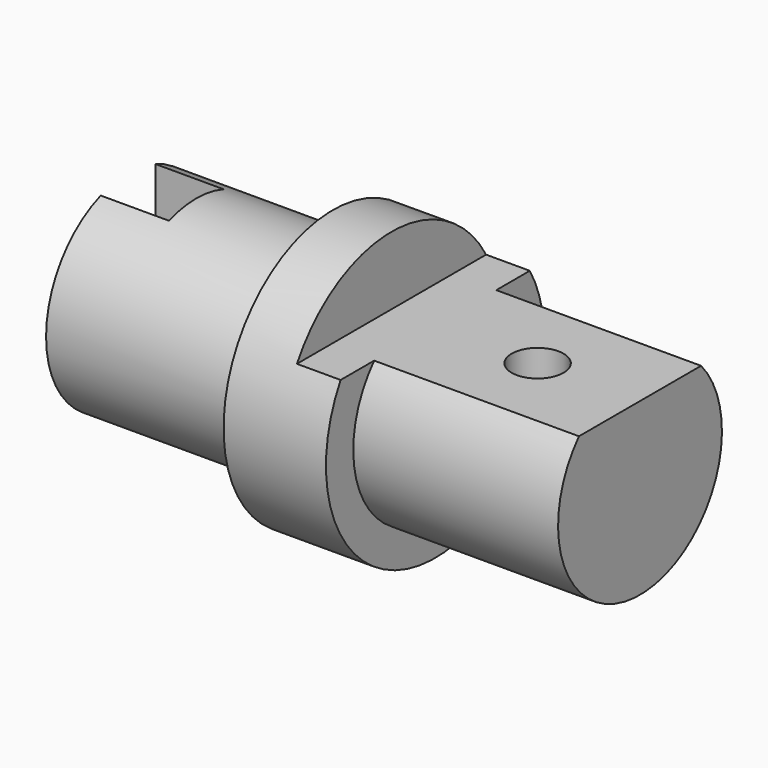
from build123d import *

# Parameters (mm, degrees)
F0_R      = 25.4
F1_DEPTH  = 95.25
F2_R      = 25.4
F2_R_2    = 19.05
F3_DEPTH  = 38.1
F4_R      = 25.4
F4_R_2    = 19.05
F5_DEPTH  = 38.1
F7_DEPTH  = 12.7
F9_DEPTH  = 46.228
F10_R     = 4.826
F11_DEPTH = 22.352


with BuildPart() as f1:
    # F0 (on Right) → F1 (new body)
    with BuildSketch(Plane.YZ):
        Circle(F0_R)
    extrude(amount=F1_DEPTH)

    # F2 (on face) → F3 (cut)
    with BuildSketch(Plane.YZ.offset(95.25)):
        Circle(F2_R)
        Circle(F2_R_2, mode=Mode.SUBTRACT)
    extrude(amount=-F3_DEPTH, mode=Mode.SUBTRACT)

    # F4 (on face) → F5 (cut)
    with BuildSketch(Plane(origin=(0, 0, 0), x_dir=(0, -1, 0), z_dir=(-1, 0, 0))):
        Circle(F4_R)
        Circle(F4_R_2, mode=Mode.SUBTRACT)
    extrude(amount=-F5_DEPTH, mode=Mode.SUBTRACT)

    # F6 (on face) → F7 (cut)
    with BuildSketch(Plane(origin=(0, 0, 0), x_dir=(0, -1, 0), z_dir=(-1, 0, 0))):
        with BuildLine():
            ThreePointArc((6.35, 17.9605122421), (3.2213926947, 18.7756525614), (0, 19.05))
            ThreePointArc((0, 19.05), (-3.2213926947, 18.7756525614), (-6.35, 17.9605122421))
            Line((-6.35, 17.9605122421), (-6.35, -17.9605122421))
            ThreePointArc((-6.35, -17.9605122421), (-3.2213926947, -18.7756525614), (0, -19.05))
            ThreePointArc((0, -19.05), (3.2213926947, -18.7756525614), (6.35, -17.9605122421))
            Line((6.35, -17.9605122421), (6.35, 17.9605122421))
        make_face()
    extrude(amount=-F7_DEPTH, mode=Mode.SUBTRACT)

    # F8 (on face) → F9 (cut)
    with BuildSketch(Plane.YZ.offset(95.25)):
        with BuildLine():
            Line((-40.058898566, 25.4), (-40.058898566, 21.5428465581))
            Line((-40.058898566, 21.5428465581), (-40.058898566, 12.7))
            Line((-40.058898566, 12.7), (-14.1990316571, 12.7))
            ThreePointArc((-14.1990316571, 12.7), (0, 19.05), (14.1990316571, 12.7))
            Line((14.1990316571, 12.7), (36.141101434, 12.7))
            Line((36.141101434, 12.7), (36.141101434, 25.4))
            Line((36.141101434, 25.4), (-40.058898566, 25.4))
        make_face()
        with BuildLine():
            ThreePointArc((14.1990316571, 12.7), (0, 19.05), (-14.1990316571, 12.7))
            Line((-14.1990316571, 12.7), (14.1990316571, 12.7))
        make_face()
    extrude(amount=-F9_DEPTH, mode=Mode.SUBTRACT)

    # F10 (on face) → F11 (cut)
    with BuildSketch(Plane.XY.offset(12.7)):
        with Locations((76.2, 0)):
            Circle(F10_R)
    extrude(amount=-F11_DEPTH, mode=Mode.SUBTRACT)


solid = f1.part
